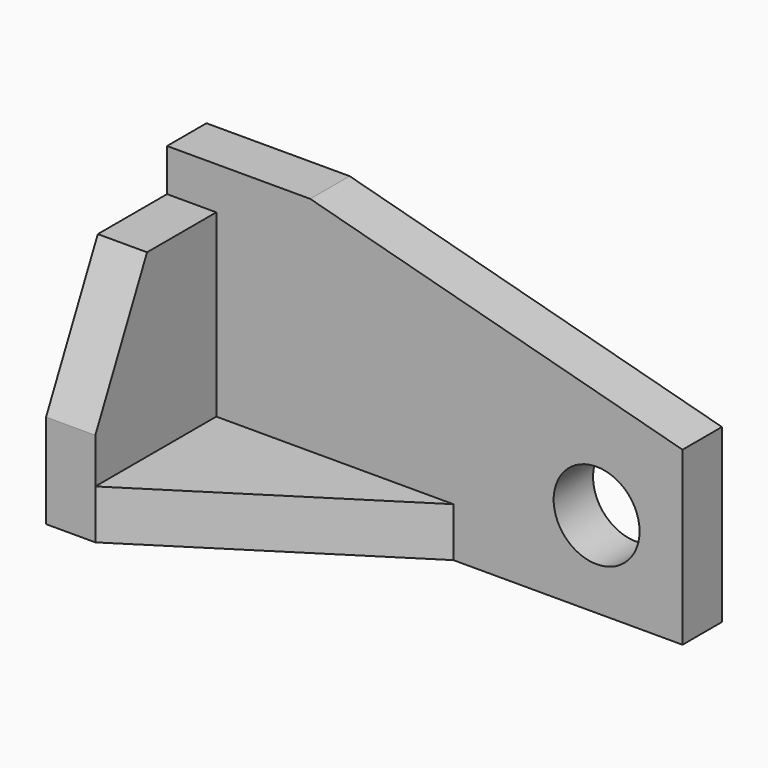
from build123d import *

# Parameters (mm, degrees)
F1_DEPTH  = 10.922
F2_W      = 10.922
F2_H      = 50.8
F3_DEPTH  = 33.528
F5_DEPTH  = 25.4
F6_W      = 52.578
F6_H      = 10.922
F7_DEPTH  = 33.528
F9_DEPTH  = 10.922
F10_R     = 9.525
F11_DEPTH = 15.748


with BuildPart() as f1:
    # F0 (on Front) → F1 (new body)
    with BuildSketch(Plane.XZ):
        Polygon((-57.15, -30.099), (57.15, -30.099), (57.15, 7.979794), (-25.4, 30.099), (-57.15, 30.099), align=None)
    extrude(amount=F1_DEPTH)

    # F2 (on face) → F3 (join)
    with BuildSketch(Plane.XZ.offset(10.922)):
        with Locations((-51.689, -4.699)):
            Rectangle(F2_W, F2_H)
    extrude(amount=F3_DEPTH)

    # F4 (on face) → F5 (cut)
    with BuildSketch(Plane.YZ.offset(-46.228)):
        Polygon((-44.45, 20.701), (-44.45, -9.180245), (-30.114796, 20.701), align=None)
    extrude(amount=-F5_DEPTH, mode=Mode.SUBTRACT)

    # F6 (on face) → F7 (join)
    with BuildSketch(Plane.XZ.offset(10.922)):
        with Locations((-19.939, -24.638)):
            Rectangle(F6_W, F6_H)
    extrude(amount=F7_DEPTH)

    # F8 (on face) → F9 (cut)
    with BuildSketch(Plane.XY.offset(-19.177)):
        Polygon((6.35, -10.922), (-46.228, -44.45), (6.35, -44.45), align=None)
    extrude(amount=-F9_DEPTH, mode=Mode.SUBTRACT)

    # F10 (on face) → F11 (cut)
    with BuildSketch(Plane.XZ.offset(10.922)):
        with Locations((38.1, -11.049)):
            Circle(F10_R)
    extrude(amount=-F11_DEPTH, mode=Mode.SUBTRACT)


solid = f1.part
